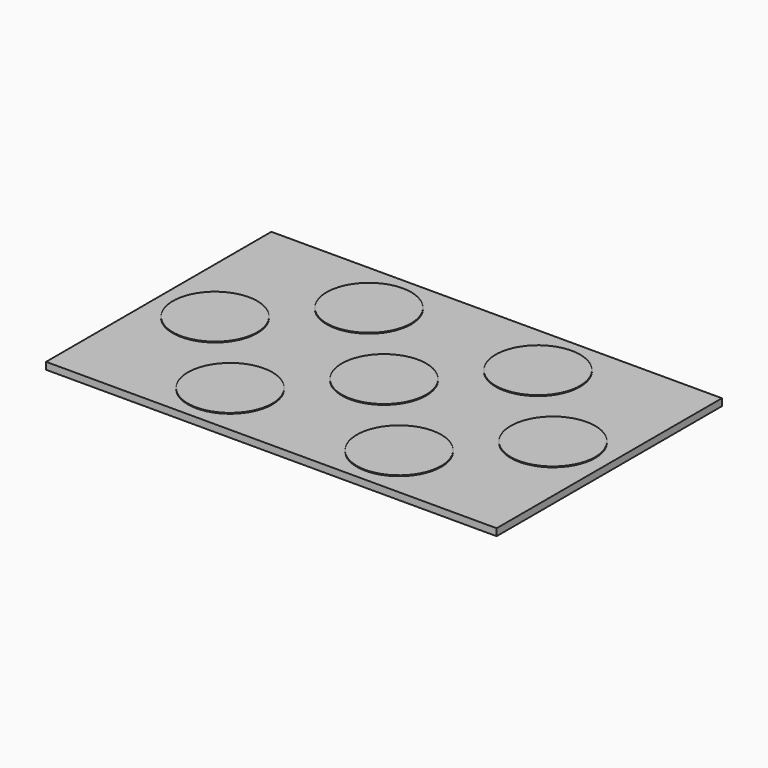
from build123d import *

# Parameters (mm, degrees)
F0_W     = 1600
F0_H     = 1000
F1_DEPTH = 25
F2_R     = 45
F3_DEPTH = 25
F2_R_2   = 150
F4_DEPTH = 3


with BuildPart() as f1:
    # F0 (on Top) → F1 (new body)
    with BuildSketch(Plane.XY):
        Rectangle(F0_W, F0_H)
    extrude(amount=F1_DEPTH)

    # F2 (on face) → F3 (cut)
    with BuildSketch(Plane.XY.offset(25)):
        with Locations((-600, 0)):
            Circle(F2_R)
        with Locations((-300, 308.058436015)):
            Circle(F2_R)
        with Locations((300, 308.058436015)):
            Circle(F2_R)
        with Locations((600, 0)):
            Circle(F2_R)
        Circle(F2_R)
        with Locations((300, -308.058436015)):
            Circle(F2_R)
        with Locations((-300, -308.058436015)):
            Circle(F2_R)
    extrude(amount=-F3_DEPTH, mode=Mode.SUBTRACT)


with BuildPart() as f4:
    # F2 (on face) → F4 (new body)
    with BuildSketch(Plane.XY.offset(25)):
        with Locations((-600, 0)):
            Circle(F2_R_2)
        with Locations((-600, 0)):
            Circle(F2_R, mode=Mode.SUBTRACT)
        with Locations((-600, 0)):
            Circle(F2_R)
    extrude(amount=F4_DEPTH)


with BuildPart() as f4b:
    # F2 (on face) → F4, piece 2 (new body)
    with BuildSketch(Plane.XY.offset(25)):
        with Locations((-300, 308.058436015)):
            Circle(F2_R_2)
        with Locations((-300, 308.058436015)):
            Circle(F2_R, mode=Mode.SUBTRACT)
        with Locations((-300, 308.058436015)):
            Circle(F2_R)
    extrude(amount=F4_DEPTH)


with BuildPart() as f4c:
    # F2 (on face) → F4, piece 3 (new body)
    with BuildSketch(Plane.XY.offset(25)):
        Circle(F2_R_2)
        Circle(F2_R, mode=Mode.SUBTRACT)
        Circle(F2_R)
    extrude(amount=F4_DEPTH)


with BuildPart() as f4d:
    # F2 (on face) → F4, piece 4 (new body)
    with BuildSketch(Plane.XY.offset(25)):
        with Locations((300, 308.058436015)):
            Circle(F2_R_2)
        with Locations((300, 308.058436015)):
            Circle(F2_R, mode=Mode.SUBTRACT)
        with Locations((300, 308.058436015)):
            Circle(F2_R)
    extrude(amount=F4_DEPTH)


with BuildPart() as f4e:
    # F2 (on face) → F4, piece 5 (new body)
    with BuildSketch(Plane.XY.offset(25)):
        with Locations((300, -308.058436015)):
            Circle(F2_R_2)
        with Locations((300, -308.058436015)):
            Circle(F2_R, mode=Mode.SUBTRACT)
        with Locations((300, -308.058436015)):
            Circle(F2_R)
    extrude(amount=F4_DEPTH)


with BuildPart() as f4f:
    # F2 (on face) → F4, piece 6 (new body)
    with BuildSketch(Plane.XY.offset(25)):
        with Locations((-300, -308.058436015)):
            Circle(F2_R_2)
        with Locations((-300, -308.058436015)):
            Circle(F2_R, mode=Mode.SUBTRACT)
        with Locations((-300, -308.058436015)):
            Circle(F2_R)
    extrude(amount=F4_DEPTH)


with BuildPart() as f4g:
    # F2 (on face) → F4, piece 7 (new body)
    with BuildSketch(Plane.XY.offset(25)):
        with Locations((600, 0)):
            Circle(F2_R_2)
        with Locations((600, 0)):
            Circle(F2_R, mode=Mode.SUBTRACT)
        with Locations((600, 0)):
            Circle(F2_R)
    extrude(amount=F4_DEPTH)


solid = Compound([f1.part, f4.part, f4b.part, f4c.part, f4d.part, f4e.part, f4f.part, f4g.part])
